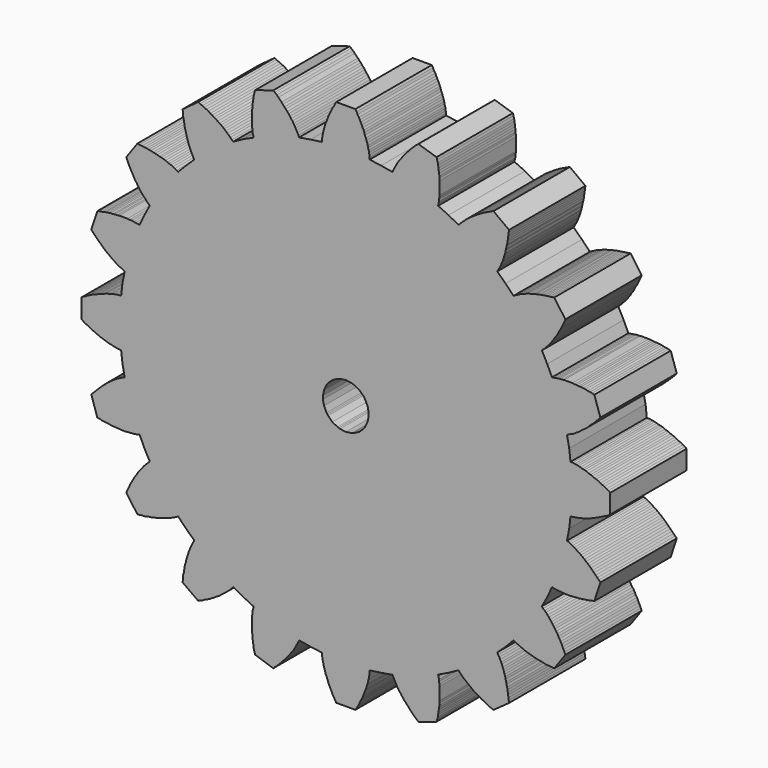
from build123d import *

# Parameters (mm, degrees)
F1_DEPTH = 25.4


with BuildPart() as f1:
    # F0 (on Front) → F1 (new body)
    with BuildSketch(Plane.XZ):
        Polygon((58.673238, 13.461467), (59.267344, 16.509721), (59.60491, 19.473901), (60.197492, 19.557975), (60.706, 19.643573), (61.214254, 19.727393), (61.721746, 19.811467), (62.23, 19.981139), (62.822582, 20.066483), (63.33109, 20.235901), (63.838328, 20.405573), (64.346582, 20.573467), (64.939418, 20.743139), (65.447672, 20.998155), (65.95491, 21.166049), (66.463418, 21.421065), (67.056, 21.674811), (67.564254, 21.928049), (68.071746, 22.183065), (68.58, 22.436811), (69.172582, 22.690049), (69.68109, 23.029139), (70.188328, 23.367975), (70.188328, 28.447721), (69.68109, 28.786811), (69.172582, 29.040049), (68.58, 29.379139), (68.071746, 29.632631), (67.564254, 29.887647), (67.056, 30.141393), (66.463418, 30.394631), (65.95491, 30.564303), (65.447672, 30.819065), (64.939418, 30.988737), (64.346582, 31.156631), (63.838328, 31.411901), (63.33109, 31.581573), (62.822582, 31.665393), (62.23, 31.834811), (61.721746, 32.004483), (61.214254, 32.088303), (60.706, 32.173901), (60.197492, 32.257975), (59.60491, 32.257975), (59.267344, 35.305975), (58.673238, 38.269139), (59.182, 38.523901), (59.60491, 38.777393), (60.113418, 38.946811), (60.621926, 39.200303), (61.04509, 39.539393), (61.468, 39.793139), (61.976762, 40.131975), (62.399672, 40.471065), (62.822582, 40.810155), (63.33109, 41.147721), (63.754254, 41.486811), (64.177418, 41.825647), (64.600328, 42.248811), (65.023238, 42.671721), (65.447672, 43.010811), (65.87109, 43.433721), (66.294, 43.856631), (66.71691, 44.281573), (67.13982, 44.704483), (67.564254, 45.211467), (65.95491, 50.038737), (65.362328, 50.206631), (64.77, 50.292483), (64.177418, 50.376303), (63.584582, 50.545721), (62.992, 50.631573), (62.399672, 50.715393), (61.80709, 50.715393), (61.298582, 50.799467), (60.706, 50.799467), (60.113418, 50.884811), (59.60491, 50.884811), (59.012328, 50.884811), (58.505344, 50.884811), (57.911238, 50.884811), (57.404254, 50.799467), (56.811672, 50.799467), (56.303418, 50.715393), (55.794656, 50.631573), (55.287672, 50.545721), (54.69509, 50.461647), (53.424328, 53.171065), (51.985672, 55.879975), (52.323238, 56.219065), (52.747672, 56.556631), (53.085238, 56.981573), (53.509926, 57.404483), (53.847492, 57.743573), (54.186582, 58.166483), (54.525418, 58.589393), (54.864254, 59.098155), (55.20182, 59.521065), (55.45709, 60.028049), (55.794656, 60.452483), (56.133746, 60.959721), (56.388762, 61.467975), (56.642, 61.976737), (56.98109, 62.483721), (57.234582, 62.992483), (57.488328, 63.499467), (57.743344, 64.093573), (57.996582, 64.600303), (58.250328, 65.193139), (55.287672, 69.342483), (54.609492, 69.256631), (54.01691, 69.172811), (53.424328, 69.088737), (52.832, 69.003393), (52.323238, 68.919065), (51.73091, 68.833721), (51.138328, 68.664303), (50.545746, 68.579975), (50.038762, 68.410811), (49.444656, 68.241393), (48.937672, 68.157065), (48.34509, 67.987901), (47.836582, 67.817975), (47.32782, 67.564737), (46.82109, 67.395065), (46.312328, 67.225647), (45.889418, 66.972155), (45.38091, 66.717139), (44.873672, 66.463393), (44.450762, 66.210155), (42.333926, 68.410811), (40.132, 70.527393), (40.385238, 70.950303), (40.640254, 71.459065), (40.894, 71.881975), (41.147492, 72.390483), (41.31691, 72.897721), (41.571926, 73.405975), (41.73982, 73.914737), (41.909492, 74.421721), (42.07891, 75.014303), (42.248582, 75.522811), (42.333926, 76.115393), (42.50182, 76.623901), (42.587672, 77.216483), (42.75709, 77.723467), (42.84091, 78.316049), (42.926762, 78.910155), (43.010582, 79.502483), (43.094656, 80.095065), (43.18, 80.687901), (43.264328, 81.279975), (39.116254, 84.328483), (38.523672, 84.073467), (38.015418, 83.819975), (37.506656, 83.566483), (36.914328, 83.311467), (36.40709, 83.057975), (35.898582, 82.719139), (35.38982, 82.465393), (34.88309, 82.126303), (34.459926, 81.872811), (33.951418, 81.533721), (33.44291, 81.194631), (33.02, 80.941393), (32.596582, 80.602303), (32.173672, 80.264737), (31.750762, 79.925647), (31.326328, 79.502483), (30.903418, 79.163393), (30.564328, 78.824811), (30.14091, 78.401393), (29.80182, 78.062303), (27.178254, 79.502483), (24.383746, 80.771721), (24.46909, 81.279975), (24.638762, 81.872811), (24.638762, 82.381573), (24.722582, 82.888303), (24.806656, 83.396811), (24.806656, 83.989393), (24.806656, 84.498155), (24.806656, 85.090483), (24.806656, 85.597721), (24.806656, 86.190049), (24.806656, 86.782631), (24.722582, 87.376737), (24.722582, 87.883721), (24.638762, 88.476303), (24.553418, 89.069139), (24.46909, 89.661467), (24.383746, 90.255573), (24.299672, 90.848155), (24.13, 91.440483), (23.960582, 92.033065), (19.134582, 93.557065), (18.711672, 93.217975), (18.203418, 92.795065), (17.78, 92.372155), (17.35709, 91.947721), (16.933926, 91.524811), (16.59509, 91.101393), (16.171926, 90.678483), (15.83309, 90.255573), (15.409926, 89.831139), (15.07109, 89.407975), (14.732, 88.899467), (14.39291, 88.476303), (14.055344, 88.053393), (13.716254, 87.544631), (13.461238, 87.121721), (13.207746, 86.614737), (12.954254, 86.190049), (12.700762, 85.683065), (12.445746, 85.260155), (12.276328, 84.751393), (9.22782, 85.260155), (6.18109, 85.683065), (6.18109, 86.190049), (6.095746, 86.782631), (6.011672, 87.291393), (5.926328, 87.799901), (5.756656, 88.306631), (5.672582, 88.815393), (5.503418, 89.407975), (5.333746, 89.916483), (5.164328, 90.423467), (4.910582, 90.931975), (4.74091, 91.524811), (4.571746, 92.033065), (4.318, 92.540049), (4.064254, 93.132631), (3.809492, 93.641393), (3.556, 94.149901), (3.302254, 94.656631), (2.963418, 95.165393), (2.709926, 95.757975), (2.37109, 96.266483), (-2.71018, 96.266483), (-3.047746, 95.757975), (-3.302508, 95.165393), (-3.640074, 94.656631), (-3.89509, 94.149901), (-4.148582, 93.641393), (-4.402328, 93.132631), (-4.65709, 92.540049), (-4.910582, 92.033065), (-5.08, 91.524811), (-5.249672, 90.931975), (-5.503418, 90.423467), (-5.672582, 89.916483), (-5.842254, 89.407975), (-6.011672, 88.815393), (-6.095746, 88.306631), (-6.265418, 87.799901), (-6.349238, 87.291393), (-6.434582, 86.782631), (-6.51891, 86.190049), (-6.51891, 85.683065), (-9.56691, 85.260155), (-12.615418, 84.751393), (-12.784582, 85.260155), (-13.038328, 85.683065), (-13.293344, 86.190049), (-13.546582, 86.614737), (-13.800328, 87.121721), (-14.055344, 87.544631), (-14.39291, 88.053393), (-14.732, 88.476303), (-15.07109, 88.899467), (-15.41018, 89.407975), (-15.747746, 89.831139), (-16.17218, 90.255573), (-16.509746, 90.678483), (-16.932656, 91.101393), (-17.271746, 91.524811), (-17.694656, 91.947721), (-18.11909, 92.372155), (-18.542508, 92.795065), (-19.049238, 93.217975), (-19.473672, 93.557065), (-24.299672, 92.033065), (-24.46909, 91.440483), (-24.638762, 90.848155), (-24.722582, 90.255573), (-24.806656, 89.661467), (-24.892508, 89.069139), (-24.976328, 88.476303), (-25.061672, 87.883721), (-25.061672, 87.376737), (-25.145746, 86.782631), (-25.145746, 86.190049), (-25.145746, 85.597721), (-25.145746, 85.090483), (-25.145746, 84.498155), (-25.145746, 83.989393), (-25.145746, 83.396811), (-25.061672, 82.888303), (-24.976328, 82.381573), (-24.976328, 81.872811), (-24.806656, 81.279975), (-24.722582, 80.771721), (-27.516074, 79.502483), (-30.141418, 78.062303), (-30.48, 78.401393), (-30.903418, 78.824811), (-31.242508, 79.163393), (-31.665418, 79.502483), (-32.088328, 79.925647), (-32.511238, 80.264737), (-32.935672, 80.602303), (-33.35909, 80.941393), (-33.782, 81.194631), (-34.290508, 81.533721), (-34.797746, 81.872811), (-35.22218, 82.126303), (-35.72891, 82.465393), (-36.237672, 82.719139), (-36.744656, 83.057975), (-37.253418, 83.311467), (-37.845746, 83.566483), (-38.354254, 83.819975), (-38.946582, 84.073467), (-39.455344, 84.328483), (-43.603418, 81.279975), (-43.51909, 80.687901), (-43.433746, 80.095065), (-43.433746, 79.502483), (-43.264328, 78.910155), (-43.18, 78.316049), (-43.094656, 77.723467), (-43.010582, 77.216483), (-42.841418, 76.623901), (-42.671746, 76.115393), (-42.587672, 75.522811), (-42.418, 75.014303), (-42.248582, 74.421721), (-42.07891, 73.914737), (-41.909746, 73.405975), (-41.656, 72.897721), (-41.486582, 72.390483), (-41.23309, 71.881975), (-40.978074, 71.459065), (-40.81018, 70.950303), (-40.47109, 70.527393), (-42.671746, 68.410811), (-44.788328, 66.210155), (-45.211238, 66.463393), (-45.72, 66.717139), (-46.228508, 66.972155), (-46.651418, 67.225647), (-47.16018, 67.395065), (-47.66691, 67.564737), (-48.175672, 67.817975), (-48.768, 67.987901), (-49.276762, 68.157065), (-49.783746, 68.241393), (-50.376328, 68.410811), (-50.884582, 68.579975), (-51.477418, 68.664303), (-52.07, 68.833721), (-52.662328, 68.919065), (-53.17109, 69.003393), (-53.763418, 69.088737), (-54.356, 69.172811), (-55.032656, 69.256631), (-55.626762, 69.342483), (-58.589418, 65.193139), (-58.335672, 64.600303), (-58.08091, 64.093573), (-57.827418, 63.499467), (-57.573672, 62.992483), (-57.31891, 62.483721), (-56.981344, 61.976737), (-56.726328, 61.467975), (-56.472582, 60.959721), (-56.133746, 60.452483), (-55.794656, 60.028049), (-55.541418, 59.521065), (-55.202328, 59.098155), (-54.864762, 58.589393), (-54.525672, 58.166483), (-54.186582, 57.743573), (-53.847746, 57.404483), (-53.424582, 56.981573), (-53.085746, 56.556631), (-52.74818, 56.219065), (-52.323238, 55.879975), (-53.763418, 53.171065), (-55.032656, 50.461647), (-55.626762, 50.545721), (-56.133746, 50.631573), (-56.642508, 50.715393), (-57.149238, 50.799467), (-57.743344, 50.799467), (-58.250328, 50.884811), (-58.84291, 50.884811), (-59.351418, 50.884811), (-59.944, 50.884811), (-60.452254, 50.884811), (-61.04509, 50.799467), (-61.637672, 50.799467), (-62.144656, 50.715393), (-62.738762, 50.715393), (-63.331344, 50.631573), (-63.923672, 50.545721), (-64.516254, 50.376303), (-65.10909, 50.292483), (-65.701418, 50.206631), (-66.294, 50.038737), (-67.902328, 45.211467), (-67.47891, 44.704483), (-67.056, 44.281573), (-66.63309, 43.856631), (-66.21018, 43.433721), (-65.785746, 43.010811), (-65.362328, 42.671721), (-64.939418, 42.248811), (-64.516254, 41.825647), (-64.093344, 41.486811), (-63.66891, 41.147721), (-63.161672, 40.810155), (-62.738762, 40.471065), (-62.314328, 40.131975), (-61.80709, 39.793139), (-61.382656, 39.539393), (-60.959746, 39.200303), (-60.452254, 38.946811), (-59.944, 38.777393), (-59.52109, 38.523901), (-59.012328, 38.269139), (-59.60491, 35.305975), (-59.944, 32.257975), (-60.536582, 32.257975), (-61.04509, 32.173901), (-61.552328, 32.088303), (-62.060582, 32.004483), (-62.653418, 31.834811), (-63.161672, 31.665393), (-63.66891, 31.581573), (-64.177418, 31.411901), (-64.685672, 31.156631), (-65.278508, 30.988737), (-65.785746, 30.819065), (-66.294, 30.564303), (-66.802508, 30.394631), (-67.39509, 30.141393), (-67.902328, 29.887647), (-68.410582, 29.632631), (-68.91909, 29.379139), (-69.511672, 29.040049), (-70.01891, 28.786811), (-70.527418, 28.447721), (-70.527418, 23.367975), (-70.01891, 23.029139), (-69.511672, 22.690049), (-68.91909, 22.436811), (-68.410582, 22.183065), (-67.902328, 21.928049), (-67.39509, 21.674811), (-66.802508, 21.421065), (-66.294, 21.166049), (-65.785746, 20.998155), (-65.278508, 20.743139), (-64.685672, 20.573467), (-64.177418, 20.405573), (-63.66891, 20.235901), (-63.161672, 20.066483), (-62.653418, 19.981139), (-62.060582, 19.811467), (-61.552328, 19.727393), (-61.04509, 19.643573), (-60.536582, 19.557975), (-59.944, 19.473901), (-59.60491, 16.509721), (-59.012328, 13.461467), (-59.52109, 13.293573), (-59.944, 13.038303), (-60.452254, 12.784811), (-60.959746, 12.531573), (-61.382656, 12.276303), (-61.80709, 11.938737), (-62.314328, 11.683721), (-62.738762, 11.344631), (-63.161672, 11.007065), (-63.66891, 10.667975), (-64.093344, 10.245065), (-64.516254, 9.905975), (-64.939418, 9.567139), (-65.362328, 9.143975), (-65.785746, 8.721065), (-66.21018, 8.298155), (-66.63309, 7.873467), (-67.056, 7.450303), (-67.47891, 7.027393), (-67.902328, 6.604483), (-66.294, 1.693139), (-65.701418, 1.609065), (-65.10909, 1.439393), (-64.516254, 1.355573), (-63.923672, 1.269975), (-63.331344, 1.185901), (-62.738762, 1.100303), (-62.144656, 1.016483), (-61.637672, 1.016483), (-61.04509, 0.931139), (-60.452254, 0.931139), (-59.944, 0.846811), (-59.351418, 0.846811), (-58.84291, 0.846811), (-58.250328, 0.931139), (-57.743344, 0.931139), (-57.149238, 1.016483), (-56.642508, 1.016483), (-56.133746, 1.100303), (-55.626762, 1.185901), (-55.032656, 1.355573), (-53.763418, -1.439189), (-52.323238, -4.064279), (-52.74818, -4.487697), (-53.085746, -4.826533), (-53.424582, -5.164099), (-53.847746, -5.588533), (-54.186582, -6.011697), (-54.525672, -6.434607), (-54.864762, -6.857517), (-55.202328, -7.280935), (-55.541418, -7.789189), (-55.794656, -8.212353), (-56.133746, -8.720861), (-56.472582, -9.144025), (-56.726328, -9.652279), (-56.981344, -10.159517), (-57.31891, -10.668025), (-57.573672, -11.176533), (-57.827418, -11.768861), (-58.08091, -12.276099), (-58.335672, -12.868427), (-58.589418, -13.377189), (-55.626762, -17.526533), (-55.032656, -17.440935), (-54.356, -17.356861), (-53.763418, -17.356861), (-53.17109, -17.271517), (-52.662328, -17.101845), (-52.07, -17.018025), (-51.477418, -16.933951), (-50.884582, -16.764279), (-50.376328, -16.678935), (-49.783746, -16.509517), (-49.276762, -16.339845), (-48.768, -16.171951), (-48.175672, -16.002279), (-47.66691, -15.832861), (-47.16018, -15.577845), (-46.651418, -15.409951), (-46.228508, -15.154935), (-45.72, -14.985263), (-45.211238, -14.732025), (-44.788328, -14.478279), (-42.671746, -16.678935), (-40.47109, -18.711697), (-40.81018, -19.218427), (-40.978074, -19.643369), (-41.23309, -20.150099), (-41.486582, -20.658607), (-41.656, -21.082025), (-41.909746, -21.674353), (-42.07891, -22.182861), (-42.248582, -22.689845), (-42.418, -23.198607), (-42.587672, -23.706861), (-42.671746, -24.299697), (-42.841418, -24.892025), (-43.010582, -25.400533), (-43.094656, -25.993369), (-43.18, -26.585697), (-43.264328, -27.178279), (-43.433746, -27.685263), (-43.433746, -28.363189), (-43.51909, -28.956025), (-43.603418, -29.548607), (-39.455344, -32.511263), (-38.946582, -32.257517), (-38.354254, -32.088099), (-37.845746, -31.750533), (-37.253418, -31.495517), (-36.744656, -31.242025), (-36.237672, -30.988533), (-35.72891, -30.649697), (-35.22218, -30.394427), (-34.797746, -30.056861), (-34.290508, -29.801845), (-33.782, -29.464279), (-33.35909, -29.125189), (-32.935672, -28.786607), (-32.511238, -28.447517), (-32.088328, -28.109951), (-31.665418, -27.770861), (-31.242508, -27.432025), (-30.903418, -27.008607), (-30.48, -26.670025), (-30.141418, -26.246607), (-27.516074, -27.685263), (-24.722582, -29.039845), (-24.806656, -29.548607), (-24.976328, -30.056861), (-24.976328, -30.564099), (-25.061672, -31.156427), (-25.145746, -31.665189), (-25.145746, -32.173697), (-25.145746, -32.766279), (-25.145746, -33.273263), (-25.145746, -33.867369), (-25.145746, -34.459951), (-25.145746, -34.966935), (-25.061672, -35.559517), (-25.061672, -36.151845), (-24.976328, -36.744427), (-24.892508, -37.253189), (-24.806656, -37.845517), (-24.722582, -38.438099), (-24.638762, -39.030935), (-24.46909, -39.623263), (-24.299672, -40.217369), (-19.473672, -41.825189), (-19.049238, -41.402279), (-18.542508, -40.977845), (-18.11909, -40.554935), (-17.694656, -40.132025), (-17.271746, -39.708607), (-16.932656, -39.285697), (-16.509746, -38.861263), (-16.17218, -38.438099), (-15.747746, -38.015189), (-15.41018, -37.592025), (-15.07109, -37.168861), (-14.732, -36.660607), (-14.39291, -36.237697), (-14.055344, -35.814279), (-13.800328, -35.306025), (-13.546582, -34.882861), (-13.293344, -34.374353), (-13.038328, -33.951189), (-12.784582, -33.442935), (-12.615418, -33.020025), (-9.56691, -33.528279), (-6.51891, -33.951189), (-6.51891, -34.459951), (-6.434582, -34.966935), (-6.349238, -35.475189), (-6.265418, -35.983951), (-6.095746, -36.576533), (-6.011672, -37.083517), (-5.842254, -37.592025), (-5.672582, -38.100533), (-5.503418, -38.693369), (-5.249672, -39.200099), (-5.08, -39.708607), (-4.910582, -40.217369), (-4.65709, -40.809951), (-4.402328, -41.316935), (-4.148582, -41.825189), (-3.89509, -42.333951), (-3.640074, -42.926533), (-3.302508, -43.433517), (-3.047746, -43.942025), (-2.71018, -44.450533), (2.37109, -44.450533), (2.709926, -43.942025), (2.963418, -43.433517), (3.302254, -42.926533), (3.556, -42.333951), (3.809492, -41.825189), (4.064254, -41.316935), (4.318, -40.809951), (4.571746, -40.217369), (4.74091, -39.708607), (4.910582, -39.200099), (5.164328, -38.693369), (5.333746, -38.100533), (5.503418, -37.592025), (5.672582, -37.083517), (5.756656, -36.576533), (5.926328, -35.983951), (6.011672, -35.475189), (6.095746, -34.966935), (6.18109, -34.459951), (6.18109, -33.951189), (9.22782, -33.528279), (12.276328, -33.020025), (12.445746, -33.442935), (12.700762, -33.951189), (12.954254, -34.374353), (13.207746, -34.882861), (13.461238, -35.306025), (13.716254, -35.814279), (14.055344, -36.237697), (14.39291, -36.660607), (14.732, -37.168861), (15.07109, -37.592025), (15.409926, -38.015189), (15.83309, -38.438099), (16.171926, -38.861263), (16.59509, -39.285697), (16.933926, -39.708607), (17.35709, -40.132025), (17.78, -40.554935), (18.203418, -40.977845), (18.711672, -41.402279), (19.134582, -41.825189), (23.960582, -40.217369), (24.13, -39.623263), (24.299672, -39.030935), (24.383746, -38.438099), (24.46909, -37.845517), (24.553418, -37.253189), (24.638762, -36.744427), (24.722582, -36.151845), (24.722582, -35.559517), (24.806656, -34.966935), (24.806656, -34.459951), (24.806656, -33.867369), (24.806656, -33.273263), (24.806656, -32.766279), (24.806656, -32.173697), (24.806656, -31.665189), (24.722582, -31.156427), (24.638762, -30.564099), (24.638762, -30.056861), (24.46909, -29.548607), (24.383746, -29.039845), (27.178254, -27.685263), (29.80182, -26.246607), (30.14091, -26.670025), (30.564328, -27.008607), (30.903418, -27.432025), (31.326328, -27.770861), (31.750762, -28.109951), (32.173672, -28.447517), (32.596582, -28.786607), (33.02, -29.125189), (33.44291, -29.464279), (33.951418, -29.801845), (34.459926, -30.056861), (34.88309, -30.394427), (35.38982, -30.649697), (35.898582, -30.988533), (36.40709, -31.242025), (36.914328, -31.495517), (37.506656, -31.750533), (38.015418, -32.088099), (38.523672, -32.257517), (39.116254, -32.511263), (43.264328, -29.548607), (43.18, -28.956025), (43.094656, -28.363189), (43.010582, -27.685263), (42.926762, -27.178279), (42.84091, -26.585697), (42.75709, -25.993369), (42.587672, -25.400533), (42.50182, -24.892025), (42.333926, -24.299697), (42.248582, -23.706861), (42.07891, -23.198607), (41.909492, -22.689845), (41.73982, -22.182861), (41.571926, -21.674353), (41.31691, -21.082025), (41.147492, -20.658607), (40.894, -20.150099), (40.640254, -19.643369), (40.385238, -19.218427), (40.132, -18.711697), (42.333926, -16.678935), (44.450762, -14.478279), (44.873672, -14.732025), (45.38091, -14.985263), (45.889418, -15.154935), (46.312328, -15.409951), (46.82109, -15.577845), (47.32782, -15.832861), (47.836582, -16.002279), (48.34509, -16.171951), (48.937672, -16.339845), (49.444656, -16.509517), (50.038762, -16.678935), (50.545746, -16.764279), (51.138328, -16.933951), (51.73091, -17.018025), (52.323238, -17.101845), (52.832, -17.271517), (53.424328, -17.356861), (54.01691, -17.356861), (54.609492, -17.440935), (55.287672, -17.526533), (58.250328, -13.377189), (57.996582, -12.868427), (57.743344, -12.276099), (57.488328, -11.768861), (57.234582, -11.176533), (56.98109, -10.668025), (56.642, -10.159517), (56.388762, -9.652279), (56.133746, -9.144025), (55.794656, -8.720861), (55.45709, -8.212353), (55.20182, -7.789189), (54.864254, -7.280935), (54.525418, -6.857517), (54.186582, -6.434607), (53.847492, -6.011697), (53.509926, -5.588533), (53.085238, -5.164099), (52.747672, -4.826533), (52.323238, -4.487697), (51.985672, -4.064279), (53.424328, -1.439189), (54.69509, 1.355573), (55.287672, 1.185901), (55.794656, 1.100303), (56.303418, 1.016483), (56.811672, 1.016483), (57.404254, 0.931139), (57.911238, 0.931139), (58.505344, 0.846811), (59.012328, 0.846811), (59.60491, 0.846811), (60.113418, 0.931139), (60.706, 0.931139), (61.298582, 1.016483), (61.80709, 1.016483), (62.399672, 1.100303), (62.992, 1.185901), (63.584582, 1.269975), (64.177418, 1.355573), (64.77, 1.439393), (65.362328, 1.609065), (65.95491, 1.693139), (67.564254, 6.604483), (67.13982, 7.027393), (66.71691, 7.450303), (66.294, 7.873467), (65.87109, 8.298155), (65.447672, 8.721065), (65.023238, 9.143975), (64.600328, 9.567139), (64.177418, 9.905975), (63.754254, 10.245065), (63.33109, 10.667975), (62.822582, 11.007065), (62.399672, 11.344631), (61.976762, 11.683721), (61.468, 11.938737), (61.04509, 12.276303), (60.621926, 12.531573), (60.113418, 12.784811), (59.60491, 13.038303), (59.182, 13.293573), align=None)
        Polygon((5.926328, 26.369493), (5.926328, 25.907975), (5.926328, 25.447727), (5.618988, 24.066983), (4.931156, 22.628327), (4.74091, 22.352483), (4.549394, 22.078417), (3.407156, 20.998155), (2.009648, 20.256475), (1.69291, 20.150303), (1.374394, 20.045655), (-0.17018, 19.833565), (-1.715008, 20.045655), (-2.032, 20.150303), (-2.350262, 20.256475), (-3.747516, 20.998155), (-4.890008, 22.078417), (-5.08, 22.352483), (-5.271516, 22.628327), (-5.959602, 24.066983), (-6.265418, 25.447727), (-6.265418, 25.907975), (-6.265418, 26.369493), (-5.959602, 27.750237), (-5.271516, 29.190417), (-5.08, 29.464737), (-4.890008, 29.740327), (-3.747516, 30.819065), (-2.350262, 31.560745), (-2.032, 31.665393), (-1.715008, 31.771565), (-0.17018, 31.983655), (1.374394, 31.771565), (1.69291, 31.665393), (2.009648, 31.560745), (3.407156, 30.819065), (4.549394, 29.740327), (4.74091, 29.464737), (4.931156, 29.190417), (5.618988, 27.750237), align=None, mode=Mode.SUBTRACT)
    extrude(amount=F1_DEPTH)


solid = f1.part
